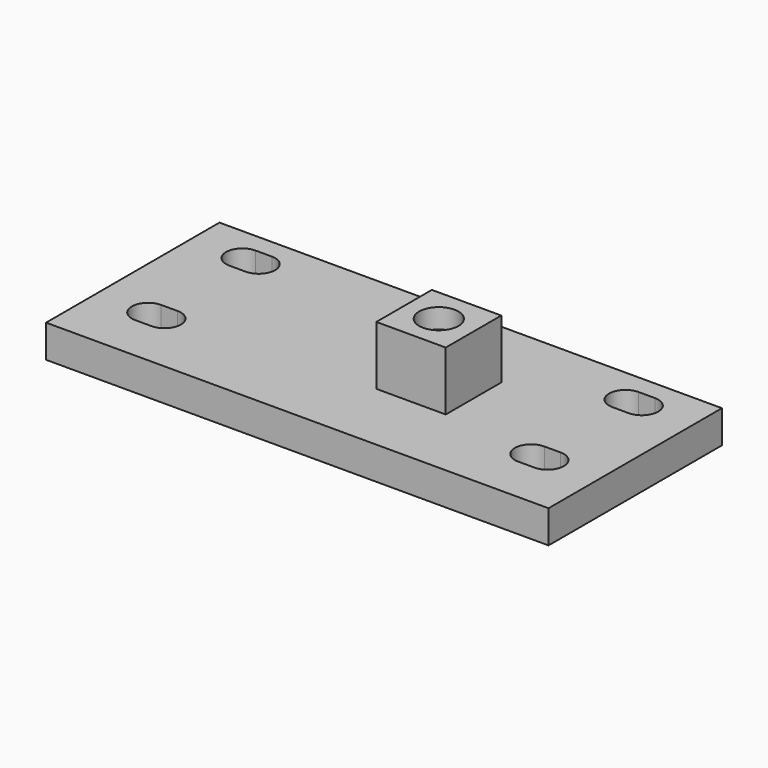
from build123d import *

# Parameters (mm, degrees)
F0_W      = 34
F0_H      = 22
F0_R      = 4
F1_DEPTH  = 30.2
F3_DEPTH  = 5
F6_R      = 1.5
F7_DEPTH  = 25
F8_R      = 3
F9_DEPTH  = 3
F10_W     = 10.6
F10_H     = 10.6
F10_R     = 1.5
F11_DEPTH = 9
F12_R     = 3
F13_DEPTH = 3


with BuildPart() as f1:
    # F0 (on Front) → F1 (new body)
    with BuildSketch(Plane.XZ):
        with Locations((-19.0666666667, -4.8576944201)):
            Rectangle(F0_W, F0_H)
        with Locations((-19.0666666667, -4.8576944201)):
            Circle(F0_R, mode=Mode.SUBTRACT)
    extrude(amount=F1_DEPTH)


with BuildPart() as f1b:
    # F0 (on Front) → F1, piece 2 (new body)
    with BuildSketch(Plane.XZ):
        with Locations((17.7333333333, -4.8576944201)):
            Rectangle(F0_W, F0_H)
        with Locations((17.7333333333, -4.8576944201)):
            Circle(F0_R, mode=Mode.SUBTRACT)
    extrude(amount=F1_DEPTH)


with BuildPart() as f3:
    # F2 (on face) → F3 (new body)
    with BuildSketch(Plane.XY.offset(6.1423055799)):
        Polygon((-2.5481925458, 1.4494681964), (-40.9178168024, 1.4494681964), (-40.9178168024, -31.6494681964), (35.8214317108, -31.6494681964), (35.8214317108, 1.4494681964), align=None)
        with BuildLine():
            Line((-30.5481925458, -24.5), (-33.0481925458, -24.5))
            ThreePointArc((-33.0481925458, -24.5), (-35.5481925458, -22), (-33.0481925458, -19.5))
            Line((-33.0481925458, -19.5), (-30.5481925458, -19.5))
            ThreePointArc((-30.5481925458, -19.5), (-28.0481925458, -22), (-30.5481925458, -24.5))
        make_face(mode=Mode.SUBTRACT)
        with BuildLine():
            ThreePointArc((27.9518074542, -19.5), (30.4518074542, -22), (27.9518074542, -24.5))
            Line((27.9518074542, -24.5), (25.4518074542, -24.5))
            ThreePointArc((25.4518074542, -24.5), (22.9518074542, -22), (25.4518074542, -19.5))
            Line((25.4518074542, -19.5), (27.9518074542, -19.5))
        make_face(mode=Mode.SUBTRACT)
        with BuildLine():
            Line((-30.5481925458, -6.5), (-33.0481925458, -6.5))
            ThreePointArc((-33.0481925458, -6.5), (-35.5481925458, -4), (-33.0481925458, -1.5))
            Line((-33.0481925458, -1.5), (-30.5481925458, -1.5))
            ThreePointArc((-30.5481925458, -1.5), (-28.0481925458, -4), (-30.5481925458, -6.5))
        make_face(mode=Mode.SUBTRACT)
        with BuildLine():
            Line((25.4518074542, -1.5), (27.9518074542, -1.5))
            ThreePointArc((27.9518074542, -1.5), (30.4518074542, -4), (27.9518074542, -6.5))
            Line((27.9518074542, -6.5), (25.4518074542, -6.5))
            ThreePointArc((25.4518074542, -6.5), (22.9518074542, -4), (25.4518074542, -1.5))
        make_face(mode=Mode.SUBTRACT)
    extrude(amount=F3_DEPTH)

    # F6 (on face) → F7 (cut)
    with BuildSketch(Plane.XY.offset(11.1423055799)):
        with Locations((5.8214317108, -15.1)):
            Circle(F6_R)
    extrude(amount=-F7_DEPTH, mode=Mode.SUBTRACT)

    # F8 (on face) → F9 (cut)
    with BuildSketch(Plane(origin=(0, 0, 6.1423055799), x_dir=(1, 0, 0), z_dir=(0, 0, -1))):
        with Locations((5.8214317108, 15.1)):
            Circle(F8_R)
    extrude(amount=-F9_DEPTH, mode=Mode.SUBTRACT)


with BuildPart() as f11:
    # F10 (on face) → F11 (new body)
    with BuildSketch(Plane.XY.offset(11.1423055799)):
        with Locations((5.8214317108, -15.1)):
            Rectangle(F10_W, F10_H)
        with Locations((5.8214317108, -15.1)):
            Circle(F10_R, mode=Mode.SUBTRACT)
    extrude(amount=F11_DEPTH)

    # F12 (on face) → F13 (cut)
    with BuildSketch(Plane.XY.offset(20.1423055799)):
        with Locations((5.8214317108, -15.1)):
            Circle(F12_R)
    extrude(amount=-F13_DEPTH, mode=Mode.SUBTRACT)


solid = Compound([f3.part, f11.part])
